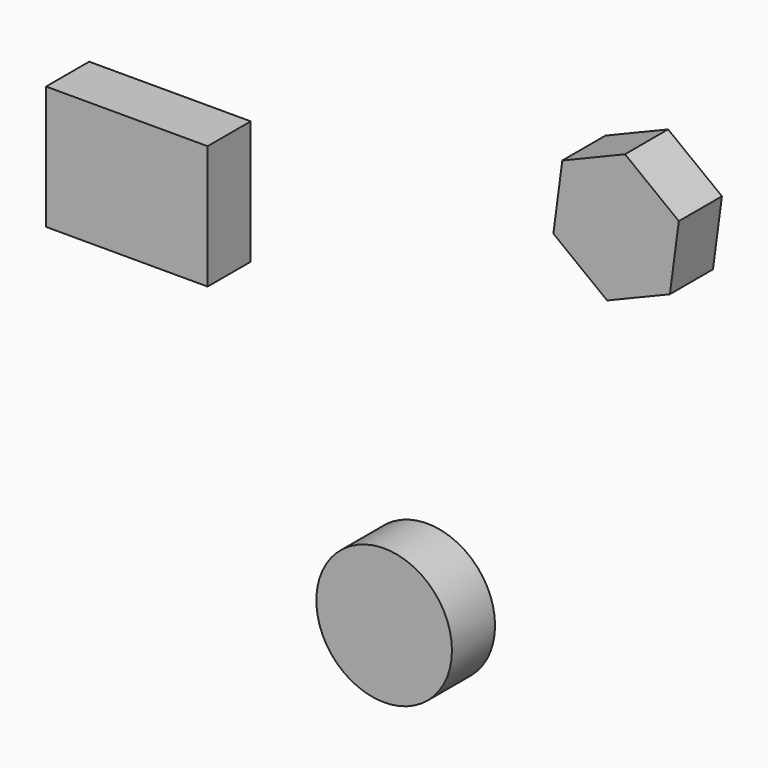
from build123d import *

# Parameters (mm, degrees)
F0_W     = 74.967474
F0_H     = 57.360351
F1_DEPTH = 25
F2_R     = 31.469794
F3_DEPTH = 25
F5_DEPTH = 25


with BuildPart() as f1:
    # F0 (on Front) → F1 (new body)
    with BuildSketch(Plane.XZ):
        with Locations((-99.17222, 13.057399)):
            Rectangle(F0_W, F0_H)
    extrude(amount=F1_DEPTH)


with BuildPart() as f3:
    # F2 (on Front) → F3 (new body)
    with BuildSketch(Plane.XZ):
        with Locations((20.219697, -127.381384)):
            Circle(F2_R)
    extrude(amount=F3_DEPTH)


with BuildPart() as f5:
    # F4 (on Front) → F5 (new body)
    with BuildSketch(Plane.XZ):
        Polygon((132.003457, 101.437553), (102.892398, 89.417727), (98.746343, 58.196897), (123.711347, 38.995893), (152.822406, 51.015719), (156.968461, 82.236548), align=None)
    extrude(amount=F5_DEPTH)


solid = Compound([f1.part, f3.part, f5.part])
